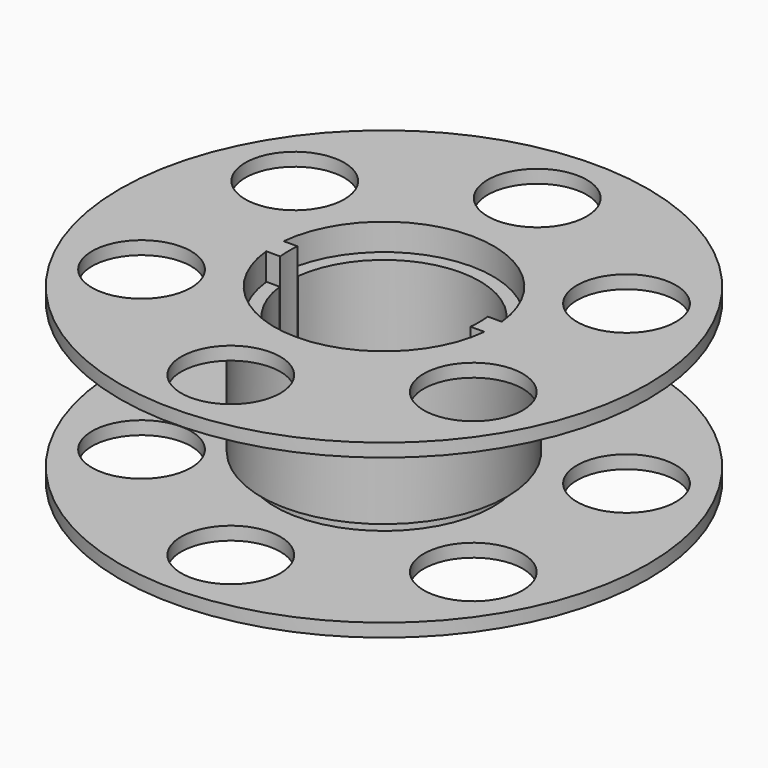
from build123d import *

# Parameters (mm, degrees)
F0_R      = 40
F0_R_2    = 7.5
F0_R_3    = 14.5
F1_DEPTH  = 2
F2_R      = 16.5
F2_R_2    = 14.5
F3_DEPTH  = 20
F4_W      = 40
F4_H      = 3.5
F5_DEPTH  = 16
F7_R      = 18.6
F7_R_2    = 16.6
F8_DEPTH  = 20
F9_R      = 40
F9_R_2    = 7.5
F9_R_3    = 16.6
F10_DEPTH = 2
F12_DEPTH = 19.5
F13_DEPTH = 16


with BuildPart() as f1:
    # F0 (on Top) → F1 (new body)
    with BuildSketch(Plane.XY):
        Circle(F0_R)
        with Locations((-25.1193833225, -14.5026827231)):
            Circle(F0_R_2, mode=Mode.SUBTRACT)
        with Locations((0, -29.0053654462)):
            Circle(F0_R_2, mode=Mode.SUBTRACT)
        with Locations((25.1193833225, -14.5026827231)):
            Circle(F0_R_2, mode=Mode.SUBTRACT)
        with Locations((-25.1193833225, 14.5026827231)):
            Circle(F0_R_2, mode=Mode.SUBTRACT)
        Circle(F0_R_3, mode=Mode.SUBTRACT)
        with Locations((25.1193833225, 14.5026827231)):
            Circle(F0_R_2, mode=Mode.SUBTRACT)
        with Locations((0, 29.0053654462)):
            Circle(F0_R_2, mode=Mode.SUBTRACT)
    extrude(amount=F1_DEPTH)

    # F2 (on face) → F3 (join)
    with BuildSketch(Plane.XY.offset(2)):
        Circle(F2_R)
        Circle(F2_R_2, mode=Mode.SUBTRACT)
    extrude(amount=F3_DEPTH)

    # F4 (on face) → F5 (cut)
    with BuildSketch(Plane.XY.offset(22)):
        Rectangle(F4_W, F4_H)
    extrude(amount=-F5_DEPTH, mode=Mode.SUBTRACT)


with BuildPart() as f8:
    # F7 (on offset) → F8 (new body)
    with BuildSketch(Plane.XY.offset(24)):
        Circle(F7_R)
        Circle(F7_R_2, mode=Mode.SUBTRACT)
    extrude(amount=-F8_DEPTH)

    # F9 (on offset) → F10 (join)
    with BuildSketch(Plane.XY.offset(24)):
        Circle(F9_R)
        with Locations((-25.1193833225, -14.5026827231)):
            Circle(F9_R_2, mode=Mode.SUBTRACT)
        with Locations((0, -29.0053654462)):
            Circle(F9_R_2, mode=Mode.SUBTRACT)
        with Locations((25.1193833225, -14.5026827231)):
            Circle(F9_R_2, mode=Mode.SUBTRACT)
        with Locations((-25.1193833225, 14.5026827231)):
            Circle(F9_R_2, mode=Mode.SUBTRACT)
        Circle(F9_R_3, mode=Mode.SUBTRACT)
        with Locations((25.1193833225, 14.5026827231)):
            Circle(F9_R_2, mode=Mode.SUBTRACT)
        with Locations((0, 29.0053654462)):
            Circle(F9_R_2, mode=Mode.SUBTRACT)
    extrude(amount=F10_DEPTH)

    # F11 (on face) → F12 (join, through all)
    with BuildSketch(Plane.XY.offset(26)):
        with BuildLine():
            Line((16.5177934362, 1.65), (14.4058147982, 1.65))
            ThreePointArc((14.4058147982, 1.65), (14.5, 0), (14.4058147982, -1.65))
            Line((14.4058147982, -1.65), (16.5177934362, -1.65))
            ThreePointArc((16.5177934362, -1.65), (16.6, 0), (16.5177934362, 1.65))
        make_face()
        with BuildLine():
            ThreePointArc((-14.4058147982, -1.65), (-14.5, 0), (-14.4058147982, 1.65))
            Line((-14.4058147982, 1.65), (-16.5177934362, 1.65))
            ThreePointArc((-16.5177934362, 1.65), (-16.6, 0), (-16.5177934362, -1.65))
            Line((-16.5177934362, -1.65), (-14.4058147982, -1.65))
        make_face()
    extrude(amount=-F12_DEPTH)

    # F11 (on face) → F13 (join)
    with BuildSketch(Plane.XY.offset(26)):
        with BuildLine():
            Line((16.5177934362, 1.65), (14.4058147982, 1.65))
            ThreePointArc((14.4058147982, 1.65), (14.5, 0), (14.4058147982, -1.65))
            Line((14.4058147982, -1.65), (16.5177934362, -1.65))
            ThreePointArc((16.5177934362, -1.65), (16.6, 0), (16.5177934362, 1.65))
        make_face()
        with BuildLine():
            ThreePointArc((-14.4058147982, -1.65), (-14.5, 0), (-14.4058147982, 1.65))
            Line((-14.4058147982, 1.65), (-16.5177934362, 1.65))
            ThreePointArc((-16.5177934362, 1.65), (-16.6, 0), (-16.5177934362, -1.65))
            Line((-16.5177934362, -1.65), (-14.4058147982, -1.65))
        make_face()
    extrude(amount=-F13_DEPTH)


solid = Compound([f1.part, f8.part])
